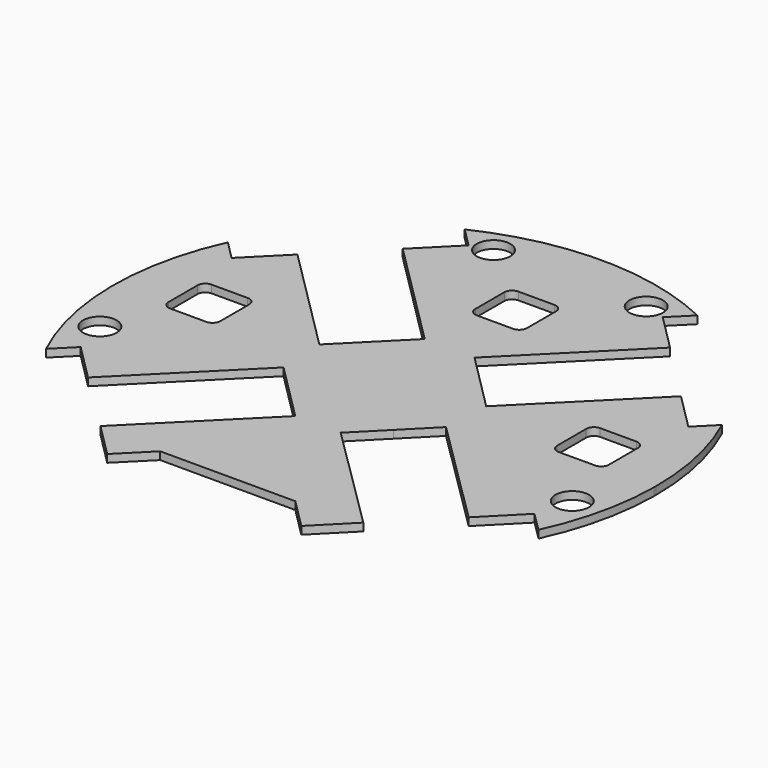
from build123d import *

# Parameters (mm, degrees)
F0_R     = 6.5
F1_DEPTH = 3


with BuildPart() as f1:
    # F0 (on Top) → F1 (new body)
    with BuildSketch(Plane.XY):
        with BuildLine():
            ThreePointArc((104.967828, 0), (104.971515, 0.508028), (104.972745, 1.016069))
            ThreePointArc((104.972745, 1.016069), (102.578155, 23.312476), (95.503606, 44.591917))
            Line((95.503606, 44.591917), (88.286917, 37.375229))
            Line((88.286917, 37.375229), (74.144781, 51.517364))
            Line((74.144781, 51.517364), (32.312379, 9.684962))
            Line((32.312379, 9.684962), (20.998671, 20.998671))
            Line((20.998671, 20.998671), (9.684962, 32.312379))
            Line((9.684962, 32.312379), (51.67823, 74.305647))
            Line((51.67823, 74.305647), (37.536094, 88.447782))
            Line((37.536094, 88.447782), (44.972721, 95.88441))
            ThreePointArc((44.972721, 95.88441), (-0.002561, 106.016066), (-44.982604, 95.905566))
            Line((-44.982604, 95.905566), (-37.562306, 88.504525))
            Line((-37.562306, 88.504525), (-51.686055, 74.344027))
            Line((-51.686055, 74.344027), (-9.657337, 32.424378))
            Line((-9.657337, 32.424378), (-20.956336, 21.09598))
            Line((-20.956336, 21.09598), (-32.255336, 9.767582))
            Line((-32.255336, 9.767582), (-74.161182, 51.564677))
            Line((-74.161182, 51.564677), (-88.284931, 37.404179))
            Line((-88.284931, 37.404179), (-95.537237, 44.637663))
            ThreePointArc((-95.537237, 44.637663), (-105.024504, 0.255865), (-94.895596, -43.983908))
            Line((-94.895596, -43.983908), (-87.458969, -36.547281))
            Line((-87.458969, -36.547281), (-73.316833, -50.689416))
            Line((-73.316833, -50.689416), (-31.323566, -8.696149))
            Line((-31.323566, -8.696149), (-20.009857, -20.009857))
            Line((-20.009857, -20.009857), (-8.696149, -31.323566))
            Line((-8.696149, -31.323566), (-50.528551, -73.155968))
            Line((-50.528551, -73.155968), (-37.529173, -86.155346))
            Line((-37.529173, -86.155346), (-26.15007, -74.776243))
            Line((-26.15007, -74.776243), (0, -74.776243))
            Line((0, -74.776243), (26.095559, -74.776243))
            Line((26.095559, -74.776243), (37.596906, -86.277589))
            Line((37.596906, -86.277589), (50.853229, -72.895181))
            Line((50.853229, -72.895181), (8.819452, -31.257433))
            Line((8.819452, -31.257433), (20.079485, -19.890303))
            Line((20.079485, -19.890303), (31.339518, -8.523172))
            Line((31.339518, -8.523172), (73.527238, -50.313413))
            Line((73.527238, -50.313413), (87.60228, -36.1045))
            Line((87.60228, -36.1045), (95.068799, -43.500673))
            ThreePointArc((95.068799, -43.500673), (102.355326, -22.282148), (104.967828, 0))
        make_face()
        with Locations((-91.341169, -22.449345)):
            Circle(F0_R, mode=Mode.SUBTRACT)
        with Locations((91.286659, -22.449345)):
            Circle(F0_R, mode=Mode.SUBTRACT)
        with BuildLine():
            Line((-68.135568, 0), (-82.135568, 0))
            ThreePointArc((-82.135568, 0), (-84.256888, 0.87868), (-85.135568, 3))
            Line((-85.135568, 3), (-85.135568, 17))
            ThreePointArc((-85.135568, 17), (-84.256888, 19.12132), (-82.135568, 20))
            Line((-82.135568, 20), (-68.135568, 20))
            ThreePointArc((-68.135568, 20), (-66.014247, 19.12132), (-65.135568, 17))
            Line((-65.135568, 17), (-65.135568, 3))
            ThreePointArc((-65.135568, 3), (-66.014247, 0.87868), (-68.135568, 0))
        make_face(mode=Mode.SUBTRACT)
        with Locations((-29.749685, 90.793084)):
            Circle(F0_R, mode=Mode.SUBTRACT)
        with BuildLine():
            ThreePointArc((85.104936, 3), (84.226257, 0.87868), (82.104936, 0))
            Line((82.104936, 0), (68.104936, 0))
            ThreePointArc((68.104936, 0), (65.983616, 0.87868), (65.104936, 3))
            Line((65.104936, 3), (65.104936, 17))
            ThreePointArc((65.104936, 17), (65.983616, 19.12132), (68.104936, 20))
            Line((68.104936, 20), (82.104936, 20))
            ThreePointArc((82.104936, 20), (84.226257, 19.12132), (85.104936, 17))
            Line((85.104936, 17), (85.104936, 3))
        make_face(mode=Mode.SUBTRACT)
        with BuildLine():
            Line((7, 54.305647), (0, 54.305647))
            Line((0, 54.305647), (-7, 54.305647))
            ThreePointArc((-7, 54.305647), (-9.12132, 55.184326), (-10, 57.305647))
            Line((-10, 57.305647), (-10, 71.305647))
            ThreePointArc((-10, 71.305647), (-9.12132, 73.426967), (-7, 74.305647))
            Line((-7, 74.305647), (0, 74.305647))
            Line((0, 74.305647), (7, 74.305647))
            ThreePointArc((7, 74.305647), (9.12132, 73.426967), (10, 71.305647))
            Line((10, 71.305647), (10, 57.305647))
            ThreePointArc((10, 57.305647), (9.12132, 55.184326), (7, 54.305647))
        make_face(mode=Mode.SUBTRACT)
        with Locations((29.269962, 90.793084)):
            Circle(F0_R, mode=Mode.SUBTRACT)
    extrude(amount=F1_DEPTH)


solid = f1.part
